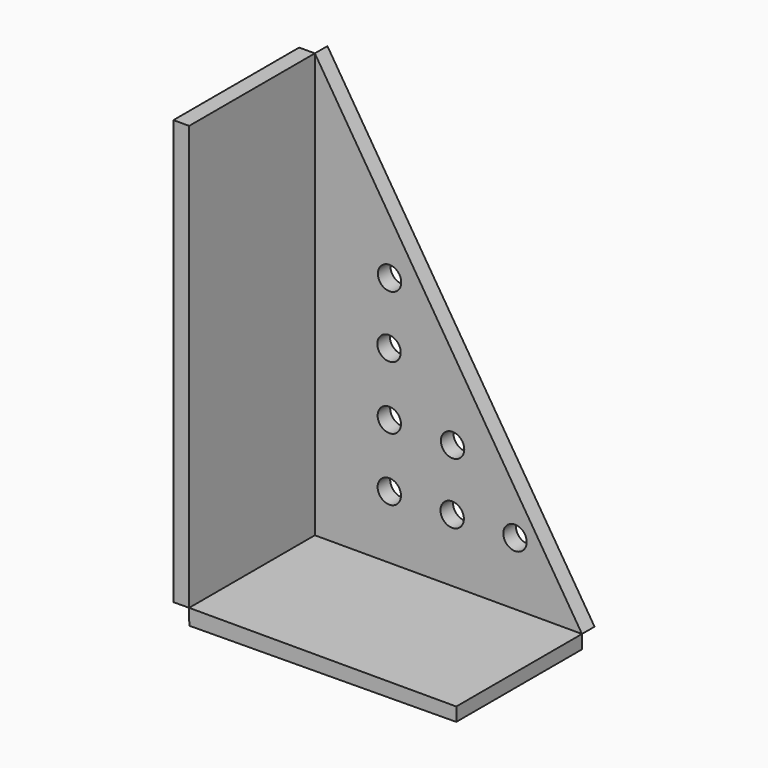
from build123d import *

# Parameters (mm, degrees)
F0_R     = 2.3622
F1_DEPTH = 3.175
F3_DEPTH = 31.75


with BuildPart() as f1:
    # F0 (on Front) → F1 (new body)
    with BuildSketch(Plane.XZ):
        Polygon((36.207597, -53.696288), (-17.767403, 32.028712), (-17.767403, -53.696288), align=None)
        with Locations((-2.7259, -40.996288)):
            Circle(F0_R, mode=Mode.SUBTRACT)
        with Locations((-2.7259, -28.285086)):
            Circle(F0_R, mode=Mode.SUBTRACT)
        with Locations((-2.779935, -15.55322)):
            Circle(F0_R, mode=Mode.SUBTRACT)
        with Locations((9.9741, -40.996288)):
            Circle(F0_R, mode=Mode.SUBTRACT)
        with Locations((22.6741, -40.996288)):
            Circle(F0_R, mode=Mode.SUBTRACT)
        with Locations((10.058921, -28.606057)):
            Circle(F0_R, mode=Mode.SUBTRACT)
        with Locations((-2.672945, -3.035336)):
            Circle(F0_R, mode=Mode.SUBTRACT)
    extrude(amount=F1_DEPTH)


with BuildPart() as f3:
    # F2 (on face) → F3 (new body)
    with BuildSketch(Plane.XZ.offset(3.175)):
        Polygon((36.207597, -53.696288), (-17.767403, -53.696288), (-17.741921, -56.871185), (36.207597, -56.43818), align=None)
        Polygon((-17.767403, -53.696288), (-17.767403, 32.028712), (-20.942403, 32.028712), (-20.942403, -53.721771), align=None)
    extrude(amount=F3_DEPTH)


solid = Compound([f1.part, f3.part])
